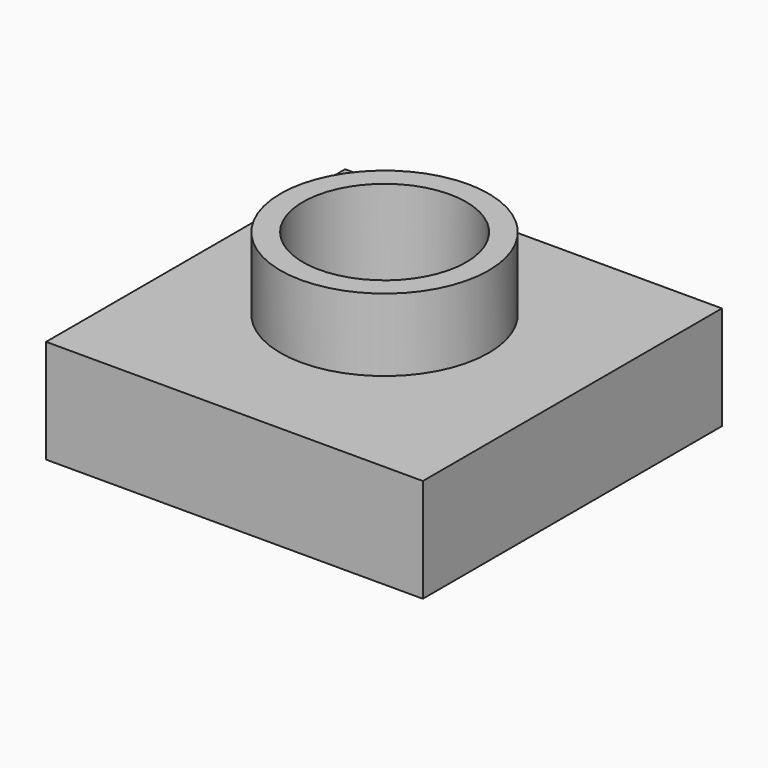
from build123d import *

# Parameters (mm, degrees)
F0_R     = 25.495864
F0_R_2   = 19.998198
F1_DEPTH = 43.18
F0_W     = 92.300695
F0_H     = 91.577713
F2_DEPTH = 25.4


with BuildPart() as f1:
    # F0 (on Top) → F1 (new body)
    with BuildSketch(Plane.XY):
        Circle(F0_R)
        Circle(F0_R_2, mode=Mode.SUBTRACT)
    extrude(amount=F1_DEPTH)

    # F0 (on Top) → F2 (join)
    with BuildSketch(Plane.XY):
        with Locations((2.650933, -3.494413)):
            Rectangle(F0_W, F0_H)
        Circle(F0_R, mode=Mode.SUBTRACT)
    extrude(amount=F2_DEPTH)


solid = f1.part
